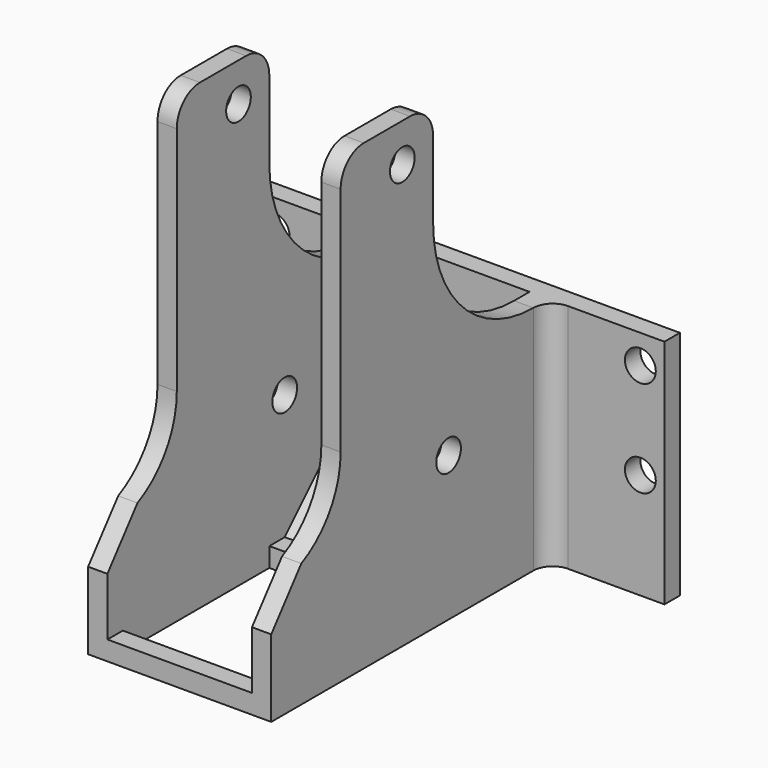
from build123d import *

# Parameters (mm, degrees)
SKETCH_W          = 43
SKETCH_H          = 24
SKETCH_R          = 1.6
PAD_DEPTH         = 2
SKETCH001_W       = 19
SKETCH001_H       = 38
PAD001_DEPTH      = 2
SKETCH002_R       = 1.6
PAD002_DEPTH      = 2
SKETCH005_R       = 1.6
PAD003_DEPTH      = 2
SKETCH004_R       = 1.6
POCKET_DEPTH      = 21.501
POCKET_DEPTH_BACK = -21.501
FILLET_R          = 2
FILLET001_R       = 8.99
CHAMFER_SIZE      = 4
CHAMFER001_SIZE   = 13
FILLET002_R       = 13
FILLET003_R       = 3


with BuildPart() as part:
    # Sketch → Pad (new body)
    with BuildSketch(Plane.XZ):
        with Locations((0, 12)):
            Rectangle(SKETCH_W, SKETCH_H)
        with Locations((-19, 21)):
            Circle(SKETCH_R, mode=Mode.SUBTRACT)
        with Locations((-19, 11)):
            Circle(SKETCH_R, mode=Mode.SUBTRACT)
        with Locations((19, 11)):
            Circle(SKETCH_R, mode=Mode.SUBTRACT)
        with Locations((19, 21)):
            Circle(SKETCH_R, mode=Mode.SUBTRACT)
    extrude(amount=PAD_DEPTH)

    # Sketch001 → Pad001 (join)
    with BuildSketch(Plane.XY):
        with Locations((0, -19)):
            Rectangle(SKETCH001_W, SKETCH001_H)
        Polygon((7.5, -17), (7.5, -36), (-7.5, -36), (-7.5, -17), (0, -17), (0, -15.5), (2, -15.5), (2, -17), align=None, mode=Mode.SUBTRACT)
    extrude(amount=PAD001_DEPTH)

    # Sketch002 (on DatumPlane) → Pad002 (join)
    with BuildSketch(Plane.YZ.offset(-9.5)):
        Polygon((0, 24), (0, 0), (-38, 0), (-38, 12), (-29, 12), (-29, 48), (-17, 48), (-17, 24), align=None)
        with Locations((-21, 44)):
            Circle(SKETCH002_R, mode=Mode.SUBTRACT)
    extrude(amount=PAD002_DEPTH)

    # Sketch005 (on DatumPlane) → Pad003 (join)
    with BuildSketch(Plane.YZ.offset(9.5)):
        Polygon((0, 24), (0, 0), (-38, 0), (-38, 12), (-29, 12), (-29, 48), (-17, 48), (-17, 24), align=None)
        with Locations((-21, 44)):
            Circle(SKETCH005_R, mode=Mode.SUBTRACT)
    extrude(amount=-PAD003_DEPTH)

    # Sketch004 → Pocket (cut, two sides)
    with BuildSketch(Plane.YZ) as pocket_sk:
        with Locations((-15, 15)):
            Circle(SKETCH004_R)
    extrude(amount=-POCKET_DEPTH, mode=Mode.SUBTRACT)
    extrude(pocket_sk.sketch, amount=-POCKET_DEPTH_BACK, mode=Mode.SUBTRACT)

    # Fillet
    fillet_edges = [part.edges().sort_by_distance(p)[0] for p in [
        (9.5, -2, 13),
        (-9.5, -2, 13),
    ]]
    fillet(fillet_edges, radius=FILLET_R)

    # Fillet001
    fillet001_edges = [part.edges().sort_by_distance(p)[0] for p in [
        (8.5, -29, 12),
        (-8.5, -29, 12),
    ]]
    fillet(fillet001_edges, radius=FILLET001_R)

    # Chamfer
    chamfer_edges = [part.edges().sort_by_distance(p)[0] for p in [
        (8.5, -38, 12),
        (-8.5, -38, 12),
    ]]
    chamfer(chamfer_edges, length=CHAMFER_SIZE)

    # Chamfer001
    chamfer001_edges = [part.edges().sort_by_distance(p)[0] for p in [
        (0, -2, 2),
    ]]
    chamfer(chamfer001_edges, length=CHAMFER001_SIZE)

    # Fillet002
    fillet002_edges = [part.edges().sort_by_distance(p)[0] for p in [
        (8.5, -17, 24),
        (-8.5, -17, 24),
    ]]
    fillet(fillet002_edges, radius=FILLET002_R)

    # Fillet003
    fillet003_edges = [part.edges().sort_by_distance(p)[0] for p in [
        (8.5, -29, 48),
        (-8.5, -29, 48),
        (-8.5, -17, 48),
        (8.5, -17, 48),
    ]]
    fillet(fillet003_edges, radius=FILLET003_R)


solid = part.part
